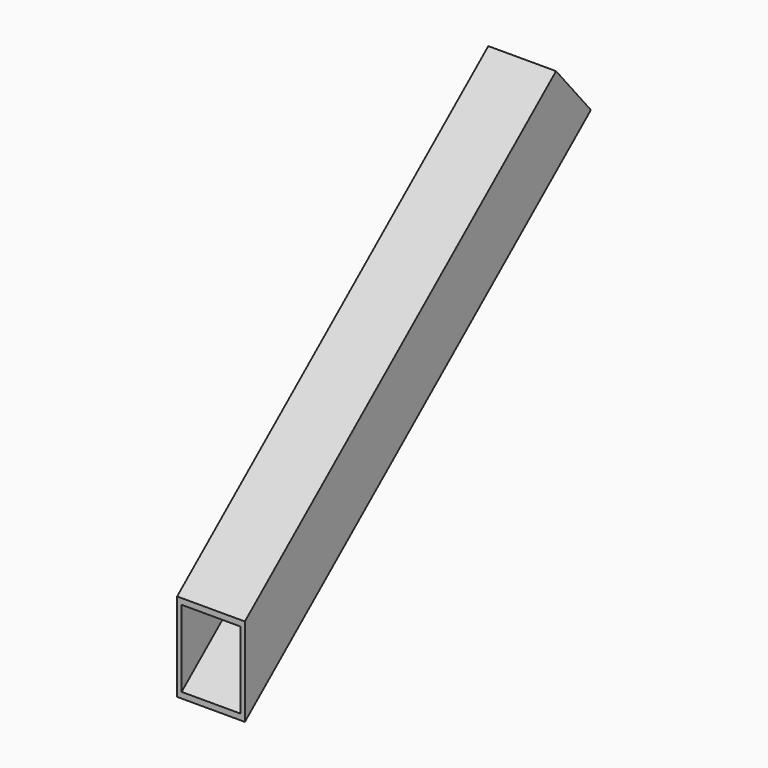
from build123d import *

# Parameters (mm, degrees)
F1_DEPTH = 300
F2_T     = -20


with BuildPart() as f1:
    # F0 (on Right) → F1 (new body)
    with BuildSketch(Plane.YZ):
        Polygon((0, 391.622187), (0, 0), (1915.111108, 1606.969024), (1722.274825, 1836.782357), align=None)
    extrude(amount=F1_DEPTH)

    # F2
    f2_openings = [f1.faces().sort_by_distance(p)[0] for p in [
        (150, 0, 195.811093),
        (150, 1818.692966, 1721.875691),
    ]]
    offset(amount=F2_T, openings=f2_openings)


solid = f1.part
